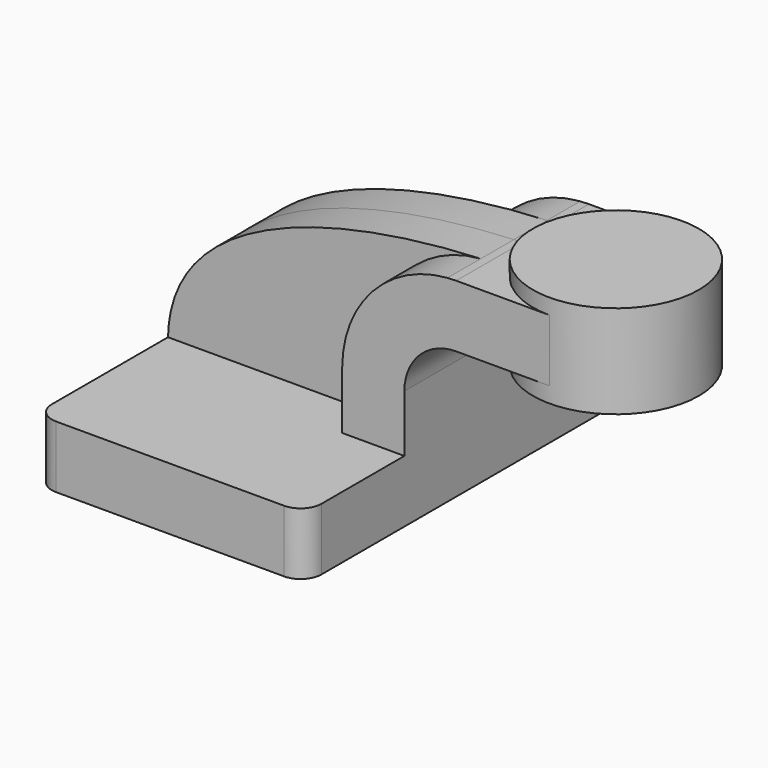
from build123d import *

# Parameters (mm, degrees)
F1_DEPTH = 63.5
F0_W     = 25.4
F0_H     = 19.05
F2_DEPTH = 25.4
F3_DEPTH = 12.7
F5_R     = 6.35


with BuildPart() as f1:
    # F0 (on Front) → F1 (new body, symmetric)
    with BuildSketch(Plane.XZ):
        Polygon((41.275, -9.525), (41.275, 9.525), (22.225, 9.525), (-41.275, 9.525), (-41.275, -9.525), align=None)
    extrude(amount=F1_DEPTH, both=True)

    # F0 (on Front) → F2 (join, symmetric)
    with BuildSketch(Plane.XZ):
        with BuildLine():
            Line((22.225, 9.525), (41.275, 9.525))
            Line((41.275, 9.525), (41.275, 27.0002))
            ThreePointArc((41.275, 27.0002), (45.9246798487, 38.2255201513), (57.15, 42.8752))
            Line((57.15, 42.8752), (60.325, 42.8752))
            Line((60.325, 42.8752), (60.325, 61.9252))
            Line((60.325, 61.9252), (57.15, 61.9252))
            add(Edge.make_bspline(
                [(57.15, 61.9252), (56.2667077822, 61.896021647), (55.3761352592, 61.8619828638), (54.478998675, 61.8229135204)],
                knots=[0, 0, 0, 0, 2.4041331296, 2.4041331296, 2.4041331296, 2.4041331296], degree=3))
            ThreePointArc((54.478998675, 61.8229135204), (31.527350388, 50.7327820732), (22.225, 27.0002))
            Line((22.225, 27.0002), (22.225, 9.525))
        make_face()
        with Locations((73.025, 52.4002)):
            Rectangle(F0_W, F0_H)
        with Locations((73.025, 52.4002)):
            Rectangle(F0_W, F0_H)
    extrude(amount=F2_DEPTH, both=True)

    # F0 (on Front) → F3 (join, symmetric)
    with BuildSketch(Plane.XZ):
        with BuildLine():
            Line((-41.275, 9.525), (22.225, 9.525))
            Line((22.225, 9.525), (22.225, 27.0002))
            ThreePointArc((22.225, 27.0002), (31.527350388, 50.7327820732), (54.478998675, 61.8229135204))
            add(Edge.make_bspline(
                [(54.478998675, 61.8229135204), (13.7666264229, 60.0499330393), (-40.4636171483, 47.9171368139), (-41.275, 9.525)],
                knots=[2.4041331296, 2.4041331296, 2.4041331296, 2.4041331296, 111.5045361635, 111.5045361635, 111.5045361635, 111.5045361635], degree=3))
        make_face()
    extrude(amount=F3_DEPTH, both=True)

    # F0 (on Front) → F4 (revolve)
    with BuildSketch(Plane.XZ):
        Polygon((85.725, 61.9252), (85.725, 42.8752), (85.725, 38.1), (111.125, 38.1), (111.125, 66.675), (85.725, 66.675), align=None)
    revolve(axis=Axis((85.725, 0, 52.3875), (0, 0, -1)))

    # F5
    f5_edges = [f1.edges().sort_by_distance(p)[0] for p in [
        (-41.275, -63.5, 0),
        (41.275, -63.5, 0),
        (41.275, 63.5, 0),
        (-41.275, 63.5, 0),
    ]]
    fillet(f5_edges, radius=F5_R)


solid = f1.part
